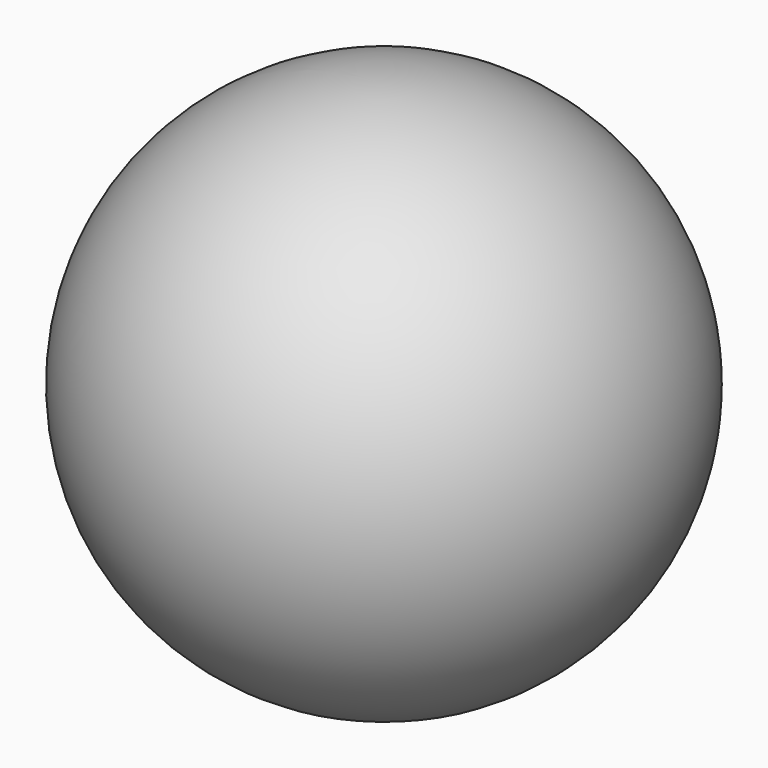
from build123d import *


with BuildPart() as f1:
    # F0 (on Front) → F1 (revolve)
    with BuildSketch(Plane.XZ):
        with BuildLine():
            ThreePointArc((0, 40), (-38.637033, 10.352762), (-20, -34.641016))
            Line((-20, -34.641016), (0, -34.641016))
            Line((0, -34.641016), (0, 40))
        make_face()
    revolve(axis=Axis((0, 0, 2.289247), (0, 0, -1)))


solid = f1.part
